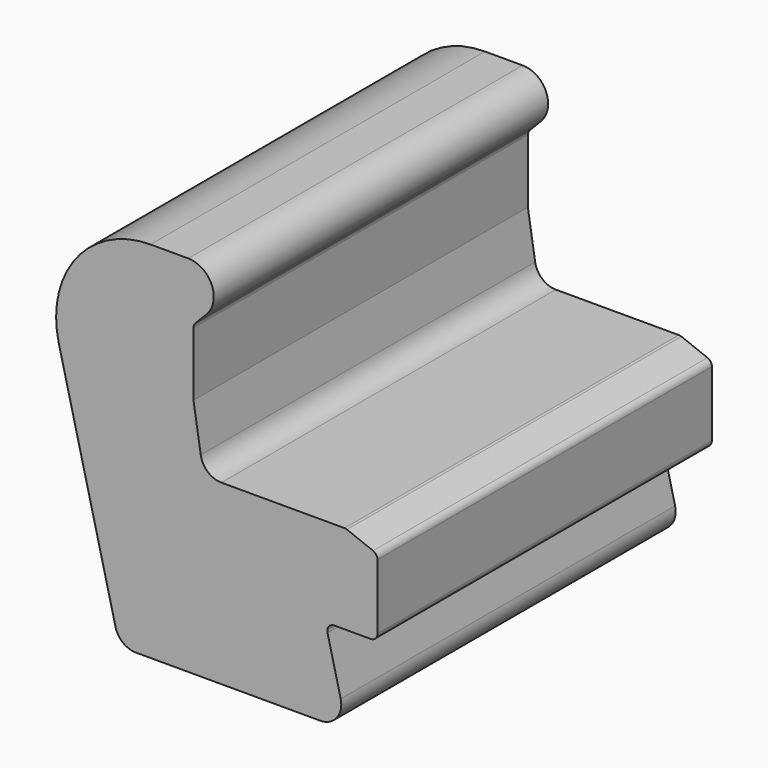
from build123d import *

# Parameters (mm, degrees)
F1_DEPTH = 60


with BuildPart() as f1:
    # F0 (on Front) → F1 (new body)
    with BuildSketch(Plane.XZ):
        with BuildLine():
            ThreePointArc((-22.822593, 57.368581), (-33.489156, 52.178546), (-35.988128, 40.582548))
            Line((-35.988128, 40.582548), (-27.847582, 7.402096))
            ThreePointArc((-27.847582, 7.402096), (-26.78541, 5.756362), (-24.933989, 5.116921))
            Line((-24.933989, 5.116921), (1.553464, 5.116921))
            ThreePointArc((1.553464, 5.116921), (3.914022, 6.2655), (4.467057, 8.831747))
            Line((4.467057, 8.831747), (2.570951, 16.560175))
            ThreePointArc((2.570951, 16.560175), (2.755296, 17.415591), (3.542149, 17.798451))
            Line((3.542149, 17.798451), (8.750318, 17.798451))
            ThreePointArc((8.750318, 17.798451), (9.457425, 18.091344), (9.750318, 18.798451))
            Line((9.750318, 18.798451), (9.750318, 28.129326))
            ThreePointArc((9.750318, 28.129326), (9.57568, 28.69393), (9.112764, 29.061331))
            Line((9.112764, 29.061331), (5.370394, 30.516696))
            ThreePointArc((5.370394, 30.516696), (5.192333, 30.567546), (5.007948, 30.584691))
            Line((5.007948, 30.584691), (-12.655282, 30.584691))
            ThreePointArc((-12.655282, 30.584691), (-14.603197, 31.303108), (-15.61817, 33.114276))
            Line((-15.61817, 33.114276), (-16.662285, 39.690574))
            Line((-16.662285, 39.690574), (-16.662285, 48.835119))
            ThreePointArc((-16.662285, 48.835119), (-16.588154, 49.212963), (-16.376753, 49.534787))
            Line((-16.376753, 49.534787), (-14.797285, 51.147666))
            ThreePointArc((-14.797285, 51.147666), (-14.038199, 55.12683), (-17.412294, 57.368581))
            Line((-17.412294, 57.368581), (-22.822593, 57.368581))
        make_face()
    extrude(amount=-F1_DEPTH)


solid = f1.part
